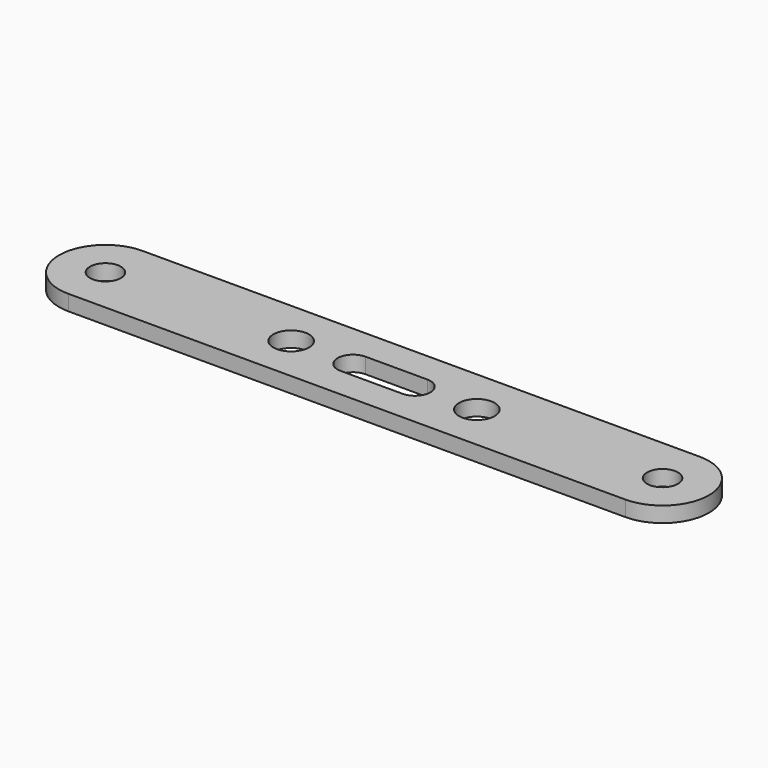
from build123d import *

# Parameters (mm, degrees)
F0_R     = 1.5875
F0_R_2   = 1.8288
F1_DEPTH = 1.5875


with BuildPart() as f1:
    # F0 (on Top) → F1 (new body)
    with BuildSketch(Plane.XY):
        with BuildLine():
            ThreePointArc((28.575, -4.7625), (33.3375, 0), (28.575, 4.7625))
            Line((28.575, 4.7625), (-28.575, 4.7625))
            ThreePointArc((-28.575, 4.7625), (-33.3375, 0), (-28.575, -4.7625))
            Line((-28.575, -4.7625), (28.575, -4.7625))
        make_face()
        with Locations((-28.575, 0)):
            Circle(F0_R, mode=Mode.SUBTRACT)
        with Locations((-9.525, 0)):
            Circle(F0_R_2, mode=Mode.SUBTRACT)
        with BuildLine():
            ThreePointArc((3.175, 1.5875), (4.7625, 0), (3.175, -1.5875))
            Line((3.175, -1.5875), (-3.175, -1.5875))
            ThreePointArc((-3.175, -1.5875), (-4.7625, 0), (-3.175, 1.5875))
            Line((-3.175, 1.5875), (3.175, 1.5875))
        make_face(mode=Mode.SUBTRACT)
        with Locations((9.525, 0)):
            Circle(F0_R_2, mode=Mode.SUBTRACT)
        with Locations((28.575, 0)):
            Circle(F0_R, mode=Mode.SUBTRACT)
    extrude(amount=F1_DEPTH)


solid = f1.part
